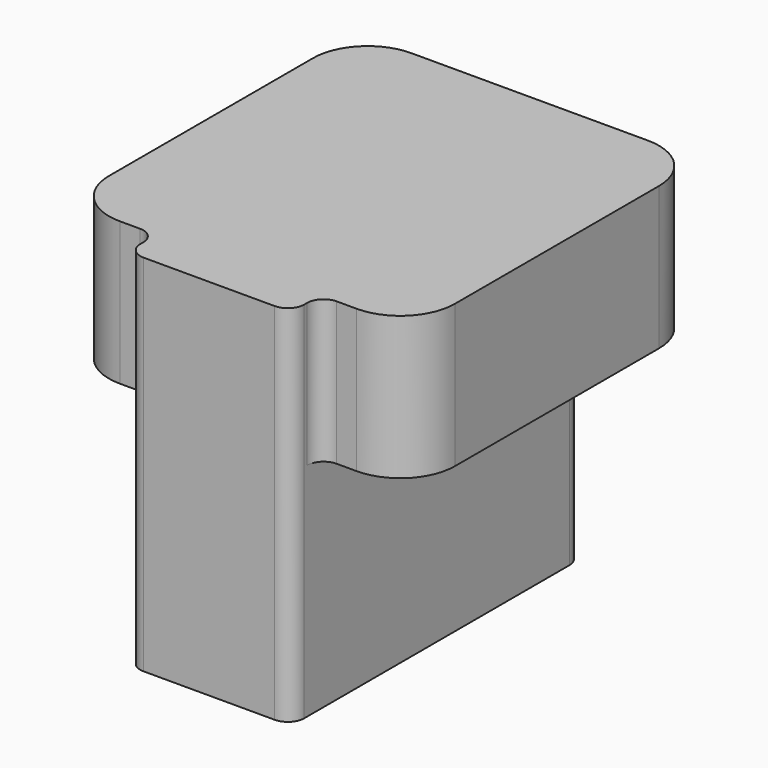
from build123d import *

# Parameters (mm, degrees)
PAD001_DEPTH = 10
SKETCH003_W  = 9
SKETCH003_H  = 20
PAD002_DEPTH = 2
SKETCH004_W  = 9
SKETCH004_H  = 12.15
POCKET_DEPTH = 2
FILLET_R     = 0.9
FILLET001_R  = 3


with BuildPart() as part:
    # Sketch002 → Pad001 (new body, symmetric)
    with BuildSketch(Plane.XZ):
        Polygon((-9.5, 0), (-9.5, -7.85), (-4.5, -7.85), (-4.5, -20), (4.5, -20), (4.5, -7.85), (9.5, -7.85), (9.5, 0), align=None)
    extrude(amount=PAD001_DEPTH, both=True)

    # Sketch003 (on Face10 of Pad001) → Pad002 (join)
    with BuildSketch(Plane.XZ.offset(10)):
        with Locations((0, -10)):
            Rectangle(SKETCH003_W, SKETCH003_H)
    extrude(amount=PAD002_DEPTH)

    # Sketch004 (on Face3 of Pad002) → Pocket (cut)
    with BuildSketch(Plane(origin=(0, 10, 0), x_dir=(1, 0, 0), z_dir=(0, 1, 0))):
        with Locations((0, 13.925)):
            Rectangle(SKETCH004_W, SKETCH004_H)
    extrude(amount=-POCKET_DEPTH, mode=Mode.SUBTRACT)

    # Fillet
    fillet_edges = [part.edges().sort_by_distance(p)[0] for p in [
        (-4.5, -12, -10),
        (4.5, -12, -10),
        (4.5, 8, -13.925),
        (-4.5, 8, -13.925),
        (4.5, -10, -3.925),
        (-4.5, -10, -3.925),
    ]]
    fillet(fillet_edges, radius=FILLET_R)

    # Fillet001
    fillet001_edges = [part.edges().sort_by_distance(p)[0] for p in [
        (-9.5, -10, -3.925),
        (-9.5, 10, -3.925),
        (9.5, -10, -3.925),
        (9.5, 10, -3.925),
    ]]
    fillet(fillet001_edges, radius=FILLET001_R)


with BuildPart() as part_1:
    # Body001 placement: moved
    add(part.part.moved(Location((0, 0, -28.5))))


solid = part_1.part
